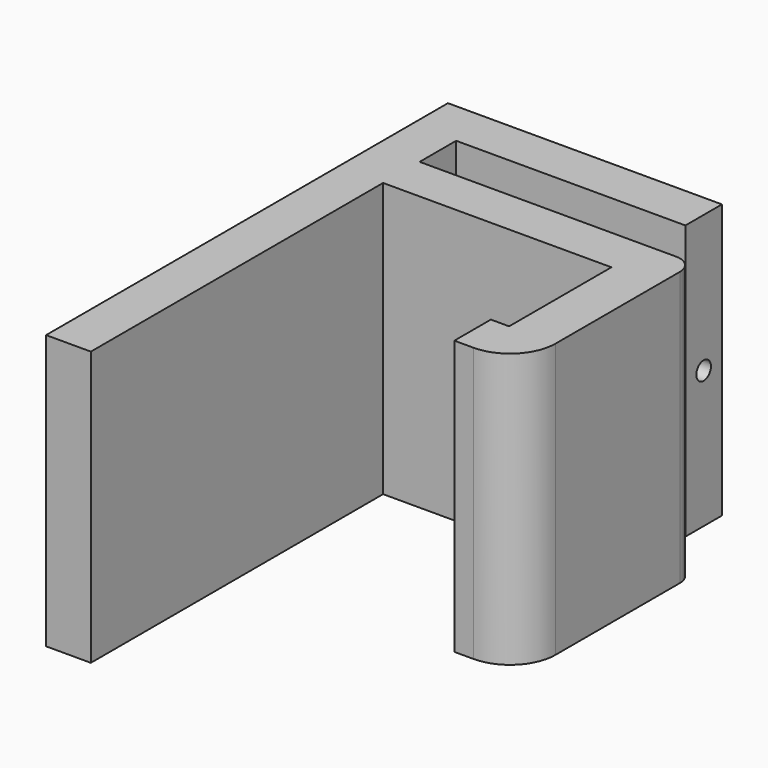
from build123d import *

# Parameters (mm, degrees)
F1_DEPTH = 30
F2_R     = 1
F3_DEPTH = 15


with BuildPart() as f1:
    # F0 (on Top) → F1 (new body)
    with BuildSketch(Plane.XY):
        with BuildLine():
            Line((0, 45), (0, 0))
            Line((0, 0), (4.900002, 0))
            Line((4.900002, 0), (4.900002, 40))
            Line((4.900002, 40), (29.900002, 40))
            Line((29.900002, 40), (29.900002, 26))
            Line((29.900002, 26), (27.900002, 26))
            Line((27.900002, 26), (27.900002, 21))
            Line((27.900002, 21), (30, 21))
            ThreePointArc((30, 21), (33.535534, 22.464466), (35, 26))
            Line((35, 26), (35, 43))
            ThreePointArc((35, 43), (34.414214, 44.414214), (33, 45))
            Line((33, 45), (4.900002, 45))
            Line((4.900002, 45), (4.900002, 50))
            Line((4.900002, 50), (30, 50))
            Line((30, 50), (30, 55))
            Line((30, 55), (0, 55))
            Line((0, 55), (0, 45))
        make_face()
    extrude(amount=F1_DEPTH)

    # F2 (on face) → F3 (cut)
    with BuildSketch(Plane.YZ.offset(30)):
        with Locations((52.5, 15)):
            Circle(F2_R)
    extrude(amount=-F3_DEPTH, mode=Mode.SUBTRACT)


solid = f1.part
